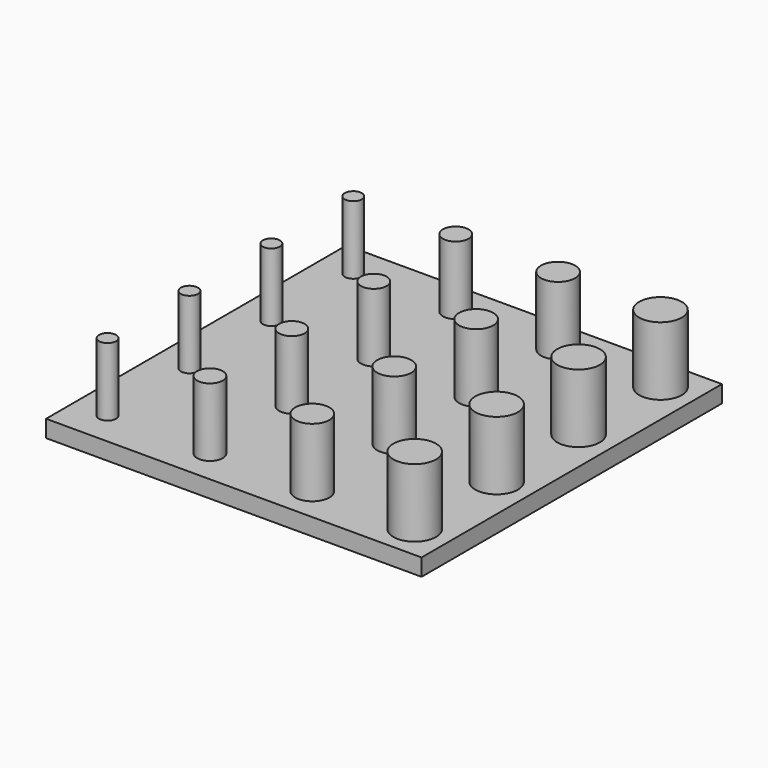
from build123d import *

# Parameters (mm, degrees)
F0_R     = 0.375
F0_R_2   = 0.5
F0_R_3   = 0.625
F0_R_4   = 0.25
F1_DEPTH = 2
F2_W     = 11
F2_H     = 11
F3_DEPTH = 0.5


with BuildPart() as f1:
    # F0 (on Top) → F1 (new body)
    with BuildSketch(Plane.XY):
        with Locations((-1.5, 4.5)):
            Circle(F0_R)
        with Locations((1.5, 4.5)):
            Circle(F0_R_2)
        with Locations((4.5, 4.5)):
            Circle(F0_R_3)
        with Locations((-1.5, 1.5)):
            Circle(F0_R)
        with Locations((1.5, 1.5)):
            Circle(F0_R_2)
        with Locations((4.5, 1.5)):
            Circle(F0_R_3)
        with Locations((-1.5, -1.5)):
            Circle(F0_R)
        with Locations((1.5, -1.5)):
            Circle(F0_R_2)
        with Locations((4.5, -1.5)):
            Circle(F0_R_3)
        with Locations((-1.5, -4.5)):
            Circle(F0_R)
        with Locations((1.5, -4.5)):
            Circle(F0_R_2)
        with Locations((4.5, -4.5)):
            Circle(F0_R_3)
        with Locations((-4.5, 4.5)):
            Circle(F0_R_4)
        with Locations((-4.5, 1.5)):
            Circle(F0_R_4)
        with Locations((-4.5, -1.5)):
            Circle(F0_R_4)
        with Locations((-4.5, -4.5)):
            Circle(F0_R_4)
    extrude(amount=F1_DEPTH)


with BuildPart() as f3:
    # F2 (on Top) → F3 (new body)
    with BuildSketch(Plane.XY):
        Rectangle(F2_W, F2_H)
    extrude(amount=-F3_DEPTH)


solid = Compound([f1.part, f3.part])
